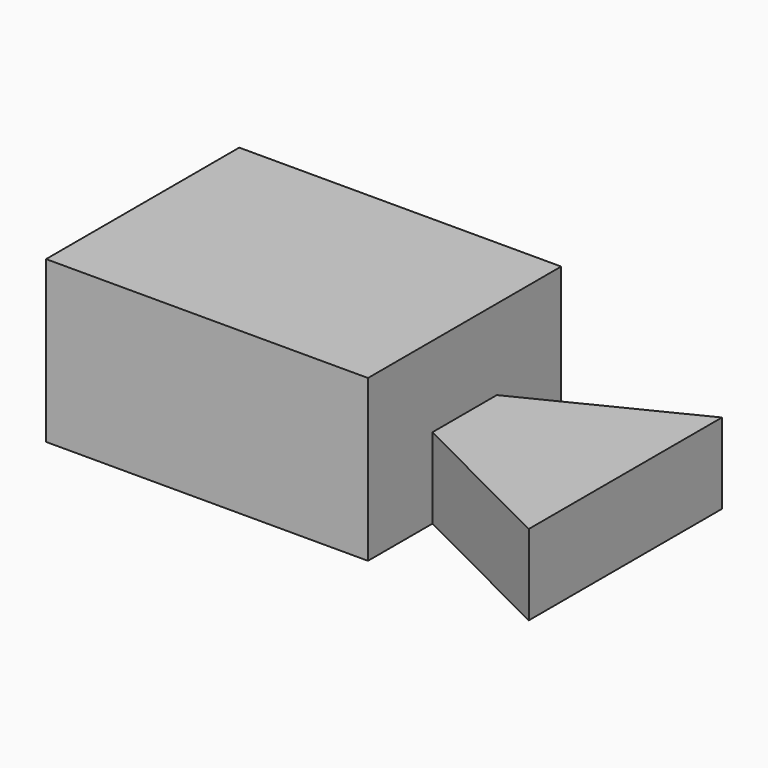
from build123d import *

# Parameters (mm, degrees)
F1_DEPTH = 50.8
F2_DEPTH = 25.4


with BuildPart() as f1:
    # F0 (on Top) → F1 (new body)
    with BuildSketch(Plane.XY):
        Polygon((29.36075, 43.963472), (-72.23925, 43.963472), (-72.23925, -32.236528), (29.36075, -32.236528), (29.36075, -6.836528), (29.36075, 18.563472), align=None)
    extrude(amount=F1_DEPTH)

    # F0 (on Top) → F2 (join)
    with BuildSketch(Plane.XY):
        Polygon((80.16075, 43.890379), (29.36075, 18.563472), (29.36075, -6.836528), (80.16075, -32.309621), (80.16075, 18.490379), align=None)
    extrude(amount=F2_DEPTH)


solid = f1.part
